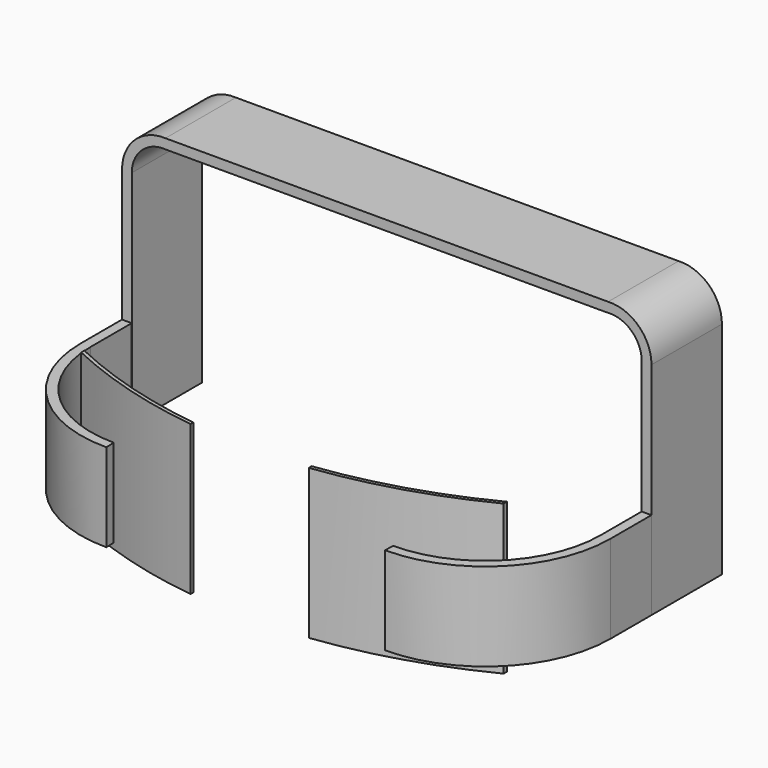
from build123d import *

# Parameters (mm, degrees)
F2_DEPTH      = 25.4
F3_DEPTH      = 25.4
F5_DEPTH      = 38.1
F5_DEPTH_BACK = 5.08


with BuildPart() as f2:
    # F0 (on Front) → F2 (new body)
    with BuildSketch(Plane.XZ):
        with BuildLine():
            Line((-76.355159, 63.57199), (-76.355159, 0))
            Line((-76.355159, 0), (-73.545843, 0))
            Line((-73.545843, 0), (-73.545843, 63.57199))
            ThreePointArc((-73.545843, 63.57199), (-70.571152, 70.319842), (-63.58318, 72.675802))
            Line((-63.58318, 72.675802), (63.58318, 72.675802))
            ThreePointArc((63.58318, 72.675802), (70.571152, 70.319842), (73.545843, 63.57199))
            Line((73.545843, 63.57199), (73.545843, 0))
            Line((73.545843, 0), (76.355159, 0))
            Line((76.355159, 0), (76.355159, 63.57199))
            ThreePointArc((76.355159, 63.57199), (72.656299, 72.216194), (63.849493, 75.509218))
            Line((63.849493, 75.509218), (-63.849493, 75.509218))
            ThreePointArc((-63.849493, 75.509218), (-72.656299, 72.216194), (-76.355159, 63.57199))
        make_face()
    extrude(amount=F2_DEPTH)


with BuildPart() as f3:
    # F1 (on Top) → F3 (new body)
    with BuildSketch(Plane.XY):
        with BuildLine():
            Line((76.355159, -25.419576), (73.545843, -25.419576))
            Line((73.545843, -25.419576), (73.545843, -40.22374))
            ThreePointArc((73.545843, -40.22374), (63.810273, -63.727486), (40.306527, -73.463056))
            Line((40.306527, -73.463056), (40.192119, -76.272191))
            ThreePointArc((40.192119, -76.272191), (65.756278, -65.75439), (76.355159, -40.22374))
            Line((76.355159, -40.22374), (76.355159, -25.419576))
        make_face()
        with BuildLine():
            Line((-73.545843, -25.419576), (-76.355159, -25.419576))
            Line((-76.355159, -25.419576), (-76.355159, -40.22374))
            ThreePointArc((-76.355159, -40.22374), (-65.756278, -65.75439), (-40.192119, -76.272191))
            Line((-40.192119, -76.272191), (-40.306527, -73.463056))
            ThreePointArc((-40.306527, -73.463056), (-63.810273, -63.727486), (-73.545843, -40.22374))
            Line((-73.545843, -40.22374), (-73.545843, -25.419576))
        make_face()
    extrude(amount=F3_DEPTH)


with BuildPart() as f5:
    # F4 (on Top) → F5 (new body, two sides)
    with BuildSketch(Plane.XY) as f5_sk:
        with BuildLine():
            Line((16.920835, -73.637406), (16.920835, -74.671656))
            ThreePointArc((16.920835, -74.671656), (40.104947, -69.728819), (62.092822, -60.870601))
            Line((62.092822, -60.870601), (62.092822, -59.718692))
            ThreePointArc((62.092822, -59.718692), (40.115111, -68.652178), (16.920835, -73.637406))
        make_face()
        with BuildLine():
            Line((-58.280259, -61.596542), (-58.280259, -62.731045))
            ThreePointArc((-58.280259, -62.731045), (-38.213891, -70.291751), (-17.214814, -74.634814))
            Line((-17.214814, -74.634814), (-17.214814, -73.600281))
            ThreePointArc((-17.214814, -73.600281), (-38.221708, -69.220578), (-58.280259, -61.596542))
        make_face()
    extrude(amount=F5_DEPTH)
    extrude(f5_sk.sketch, amount=-F5_DEPTH_BACK)


solid = Compound([f2.part, f3.part, f5.part])
